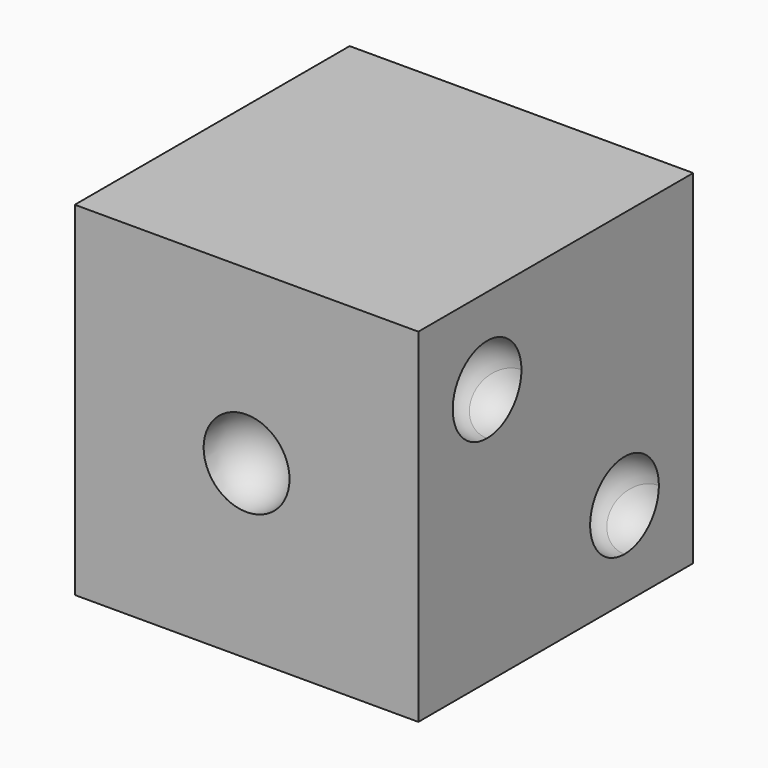
from build123d import *

# Parameters (mm, degrees)
F1_DEPTH = 50.8


with BuildPart() as f1:
    # F0 (on Front) → F1 (new body)
    with BuildSketch(Plane.XZ):
        Polygon((0, 50.8), (0, 0), (50.8, 0), (50.8, 2.1089113951), (50.8, 50.8), align=None)
    extrude(amount=F1_DEPTH)

    # F2 (on face) → F3 (revolve, cut)
    with BuildSketch(Plane.YZ.offset(50.8)):
        with BuildLine():
            ThreePointArc((-31.75, 38.1), (-35.6699602045, 43.9666350314), (-42.5901280605, 42.5901280605))
            Line((-42.5901280605, 42.5901280605), (-33.6098719395, 33.6098719395))
            ThreePointArc((-33.6098719395, 33.6098719395), (-32.2333649686, 35.6699602045), (-31.75, 38.1))
        make_face()
        with BuildLine():
            ThreePointArc((-6.35, 12.7), (-10.2699602045, 18.5666350314), (-17.1901280605, 17.1901280605))
            Line((-17.1901280605, 17.1901280605), (-8.2098719395, 8.2098719395))
            ThreePointArc((-8.2098719395, 8.2098719395), (-6.8333649686, 10.2699602045), (-6.35, 12.7))
        make_face()
    revolve(axis=Axis((50.8, -25.4, 25.4), (0, 0.7071067812, -0.7071067812)), mode=Mode.SUBTRACT)

    # F4 (on face) → F5 (revolve, cut)
    with BuildSketch(Plane.XZ.offset(50.8)):
        with BuildLine():
            Line((25.4, 19.05), (25.4, 31.75))
            ThreePointArc((25.4, 31.75), (19.05, 25.4), (25.4, 19.05))
        make_face()
    revolve(axis=Axis((25.4, -50.8, 25.4), (0, 0, -1)), mode=Mode.SUBTRACT)

    # F6 (on face) → F7 (revolve, cut)
    with BuildSketch(Plane(origin=(0, 0, 0), x_dir=(-1, 0, 0), z_dir=(0, 1, 0))):
        with BuildLine():
            Line((-17.1901280605, 17.1901280605), (-8.2098719395, 8.2098719395))
            ThreePointArc((-8.2098719395, 8.2098719395), (-6.8333649686, 10.2699602045), (-6.35, 12.7))
            ThreePointArc((-6.35, 12.7), (-10.2699602045, 18.5666350314), (-17.1901280605, 17.1901280605))
        make_face()
        with BuildLine():
            ThreePointArc((-19.05, 25.4), (-22.9699602045, 31.2666350314), (-29.8901280605, 29.8901280605))
            Line((-29.8901280605, 29.8901280605), (-20.9098719395, 20.9098719395))
            ThreePointArc((-20.9098719395, 20.9098719395), (-19.5333649686, 22.9699602045), (-19.05, 25.4))
        make_face()
        with BuildLine():
            ThreePointArc((-31.75, 38.1), (-35.6699602045, 43.9666350314), (-42.5901280605, 42.5901280605))
            Line((-42.5901280605, 42.5901280605), (-33.6098719395, 33.6098719395))
            ThreePointArc((-33.6098719395, 33.6098719395), (-32.2333649686, 35.6699602045), (-31.75, 38.1))
        make_face()
    revolve(axis=Axis((25.4, 0, 25.4), (-0.7071067812, 0, -0.7071067812)), mode=Mode.SUBTRACT)


solid = f1.part
